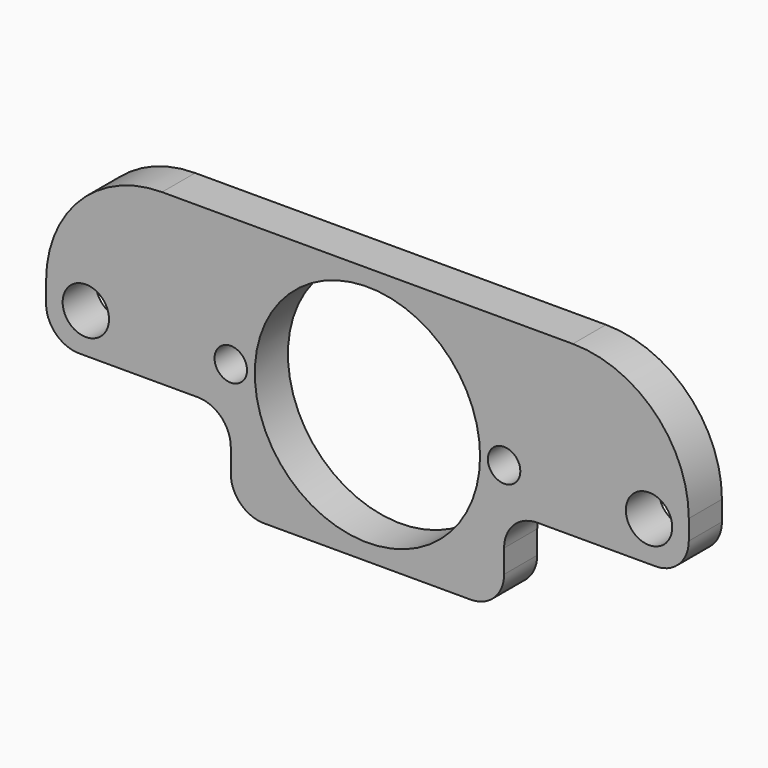
from build123d import *

# Parameters (mm, degrees)
F0_R     = 1.778
F0_R_2   = 1.2446
F0_R_3   = 8.636
F1_DEPTH = 3.175
F2_R     = 8.89
F3_R     = 2.54


with BuildPart() as f1:
    # F0 (on Front) → F1 (new body)
    with BuildSketch(Plane.XZ):
        Polygon((24.638, -3.048), (24.638, 9.906), (-24.638, 9.906), (-24.638, -3.048), (-10.4775, -3.048), (-10.4775, -9.906), (10.4775, -9.906), (10.4775, -3.048), align=None)
        with Locations((-21.59, 0)):
            Circle(F0_R, mode=Mode.SUBTRACT)
        with Locations((-10.4775, 0)):
            Circle(F0_R_2, mode=Mode.SUBTRACT)
        Circle(F0_R_3, mode=Mode.SUBTRACT)
        with Locations((10.4775, 0)):
            Circle(F0_R_2, mode=Mode.SUBTRACT)
        with Locations((21.59, 0)):
            Circle(F0_R, mode=Mode.SUBTRACT)
    extrude(amount=F1_DEPTH)

    # F2
    f2_edges = [f1.edges().sort_by_distance(p)[0] for p in [
        (-24.638, -1.5875, 9.906),
        (24.638, -1.5875, 9.906),
    ]]
    fillet(f2_edges, radius=F2_R)

    # F3
    f3_edges = [f1.edges().sort_by_distance(p)[0] for p in [
        (-24.638, -1.5875, -3.048),
        (-10.4775, -1.5875, -3.048),
        (-10.4775, -1.5875, -9.906),
        (10.4775, -1.5875, -9.906),
        (24.638, -1.5875, -3.048),
        (10.4775, -1.5875, -3.048),
    ]]
    fillet(f3_edges, radius=F3_R)


solid = f1.part
